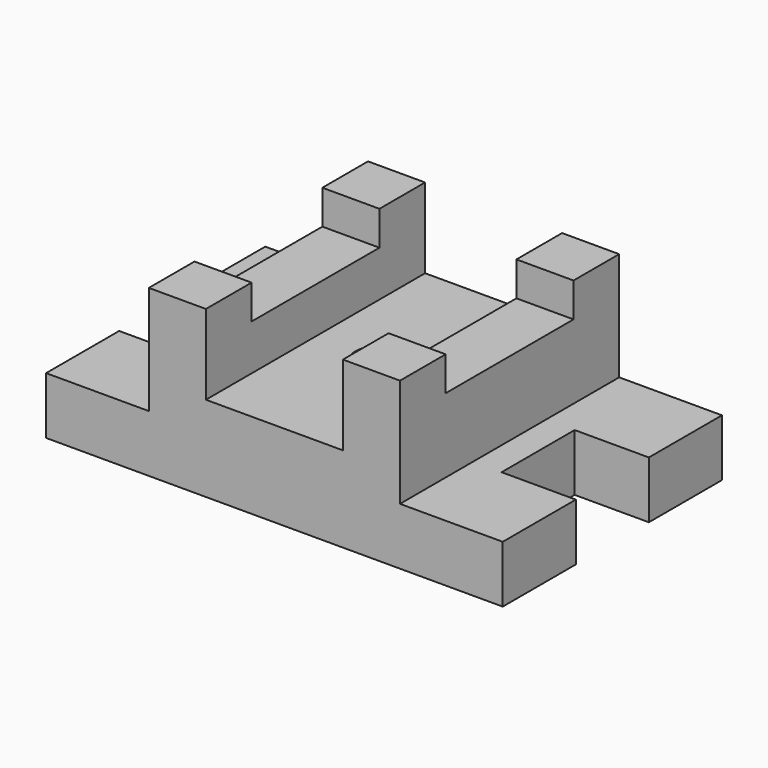
from build123d import *

# Parameters (mm, degrees)
F0_R     = 15.875
F0_W     = 31.75
F0_H     = 88.9
F0_H_2   = 31.75
F1_DEPTH = 31.75
F2_DEPTH = 47.625
F3_DEPTH = 73.025
F4_DEPTH = 92.075


with BuildPart() as f1:
    # F0 (on Top) → F1 (new body)
    with BuildSketch(Plane.XY):
        Polygon((38.1, 76.2), (-38.1, 76.2), (-38.1, 44.45), (-38.1, -44.45), (-38.1, -76.2), (38.1, -76.2), (38.1, -44.45), (38.1, 44.45), align=None)
        Circle(F0_R, mode=Mode.SUBTRACT)
        Polygon((-69.85, 76.2), (-127, 76.2), (-127, 25.4), (-85.725, 25.4), (-85.725, -25.4), (-127, -25.4), (-127, -76.2), (-69.85, -76.2), (-69.85, -44.45), (-69.85, 44.45), align=None)
        with Locations((-53.975, 0)):
            Rectangle(F0_W, F0_H)
        with Locations((-53.975, -60.325)):
            Rectangle(F0_W, F0_H_2)
        Polygon((38.1, 76.2), (-38.1, 76.2), (-38.1, 44.45), (-38.1, -44.45), (-38.1, -76.2), (38.1, -76.2), (38.1, -44.45), (38.1, 44.45), align=None)
        Circle(F0_R, mode=Mode.SUBTRACT)
        with Locations((53.975, 0)):
            Rectangle(F0_W, F0_H)
        with Locations((53.975, -60.325)):
            Rectangle(F0_W, F0_H_2)
        Polygon((127, 76.2), (69.85, 76.2), (69.85, 44.45), (69.85, -44.45), (69.85, -76.2), (127, -76.2), (127, -25.4), (85.725, -25.4), (85.725, 25.4), (127, 25.4), align=None)
    extrude(amount=F1_DEPTH)

    # F0 (on Top) → F2 (join)
    with BuildSketch(Plane.XY):
        with Locations((-53.975, 60.325)):
            Rectangle(F0_W, F0_H_2)
        with Locations((-53.975, 0)):
            Rectangle(F0_W, F0_H)
        with Locations((-53.975, -60.325)):
            Rectangle(F0_W, F0_H_2)
        Polygon((38.1, 76.2), (-38.1, 76.2), (-38.1, 44.45), (-38.1, -44.45), (-38.1, -76.2), (38.1, -76.2), (38.1, -44.45), (38.1, 44.45), align=None)
        Circle(F0_R, mode=Mode.SUBTRACT)
        with Locations((53.975, -60.325)):
            Rectangle(F0_W, F0_H_2)
        with Locations((53.975, 0)):
            Rectangle(F0_W, F0_H)
        with Locations((53.975, 60.325)):
            Rectangle(F0_W, F0_H_2)
    extrude(amount=F2_DEPTH)

    # F0 (on Top) → F3 (join)
    with BuildSketch(Plane.XY):
        with Locations((-53.975, 60.325)):
            Rectangle(F0_W, F0_H_2)
        with Locations((-53.975, 0)):
            Rectangle(F0_W, F0_H)
        with Locations((-53.975, -60.325)):
            Rectangle(F0_W, F0_H_2)
        with Locations((53.975, 60.325)):
            Rectangle(F0_W, F0_H_2)
        with Locations((53.975, 0)):
            Rectangle(F0_W, F0_H)
        with Locations((53.975, -60.325)):
            Rectangle(F0_W, F0_H_2)
    extrude(amount=F3_DEPTH)

    # F0 (on Top) → F4 (join)
    with BuildSketch(Plane.XY):
        with Locations((-53.975, 60.325)):
            Rectangle(F0_W, F0_H_2)
        with Locations((-53.975, -60.325)):
            Rectangle(F0_W, F0_H_2)
        with Locations((53.975, 60.325)):
            Rectangle(F0_W, F0_H_2)
        with Locations((53.975, -60.325)):
            Rectangle(F0_W, F0_H_2)
    extrude(amount=F4_DEPTH)


solid = f1.part
